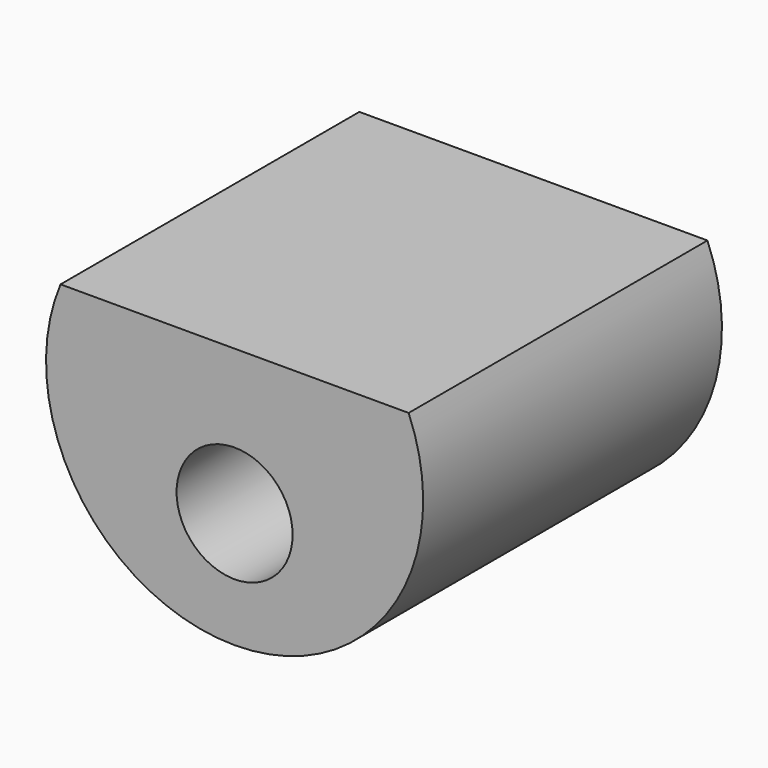
from build123d import *

# Parameters (mm, degrees)
F1_DEPTH = 13.081
F2_R     = 2.032
F3_DEPTH = 10.16
F5_DEPTH = 13.082
F7_R     = 2.032
F8_DEPTH = 3.048


with BuildPart() as f1:
    # F0 (on Front) → F1 (new body)
    with BuildSketch(Plane.XZ):
        with BuildLine():
            ThreePointArc((6.604, 0), (0, 6.604), (-6.604, 0))
            Line((-6.604, 0), (6.604, 0))
        make_face()
        with BuildLine():
            Line((6.604, 0), (-6.604, 0))
            ThreePointArc((-6.604, 0), (0, -6.604), (6.604, 0))
        make_face()
    extrude(amount=F1_DEPTH)

    # F2 (on face) → F3 (cut)
    with BuildSketch(Plane.XZ.offset(13.081)):
        with Locations((0, -2.54)):
            Circle(F2_R)
    extrude(amount=-F3_DEPTH, mode=Mode.SUBTRACT)

    # F4 (on face) → F5 (cut, through all)
    with BuildSketch(Plane.XZ.offset(13.081)):
        with BuildLine():
            ThreePointArc((6.096, 2.54), (0, 6.604), (-6.096, 2.54))
            Line((-6.096, 2.54), (6.096, 2.54))
        make_face()
    extrude(amount=-F5_DEPTH, mode=Mode.SUBTRACT)

    # F7 (on offset) → F8 (cut)
    with BuildSketch(Plane.XY.offset(-6.604)):
        with Locations((0, -5.08)):
            Circle(F7_R)
    extrude(amount=F8_DEPTH, mode=Mode.SUBTRACT)


solid = f1.part
